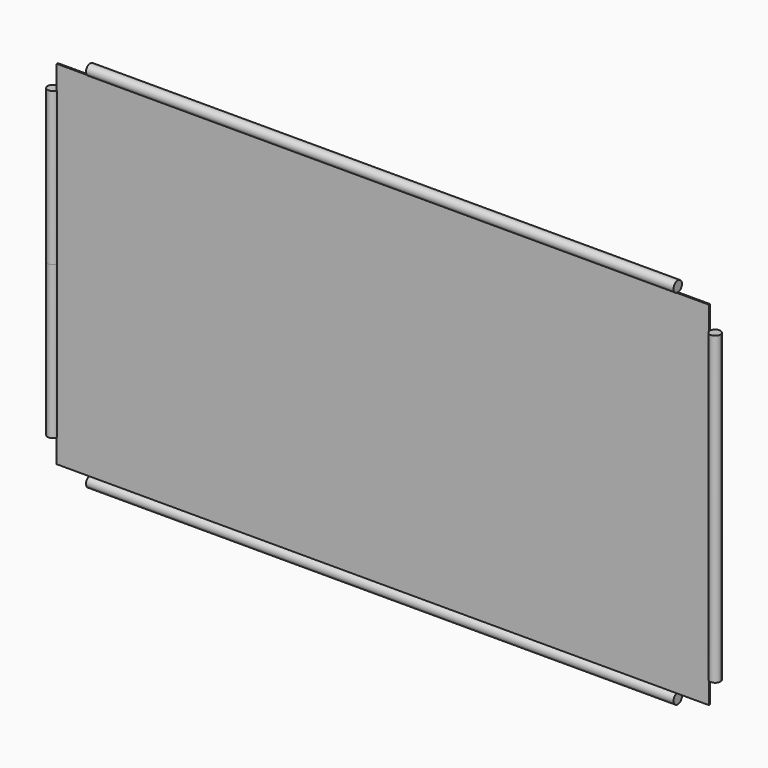
from build123d import *

# Parameters (mm, degrees)
F0_W     = 2819.4
F0_H     = 1524
F2_DEPTH = 6.35
F1_R     = 22.86
F3_DEPTH = 1270
F4_R     = 22.86
F5_DEPTH = 660.4


with BuildPart() as f2:
    # F0 (on Front) → F2 (new body)
    with BuildSketch(Plane.XZ):
        Rectangle(F0_W, F0_H)
    extrude(amount=F2_DEPTH)

    # F1 (on Right) → F3 (join, symmetric)
    with BuildSketch(Plane.YZ):
        with Locations((0, 783.913553)):
            Circle(F1_R)
        with Locations((0, -784.172714)):
            Circle(F1_R)
    extrude(amount=F3_DEPTH, both=True)

    # F4 (on Top) → F5 (join, symmetric)
    with BuildSketch(Plane.XY):
        with Locations((-1431.51629, 0)):
            Circle(F4_R)
        with Locations((1431.663156, 0)):
            Circle(F4_R)
    extrude(amount=F5_DEPTH, both=True)


solid = f2.part
